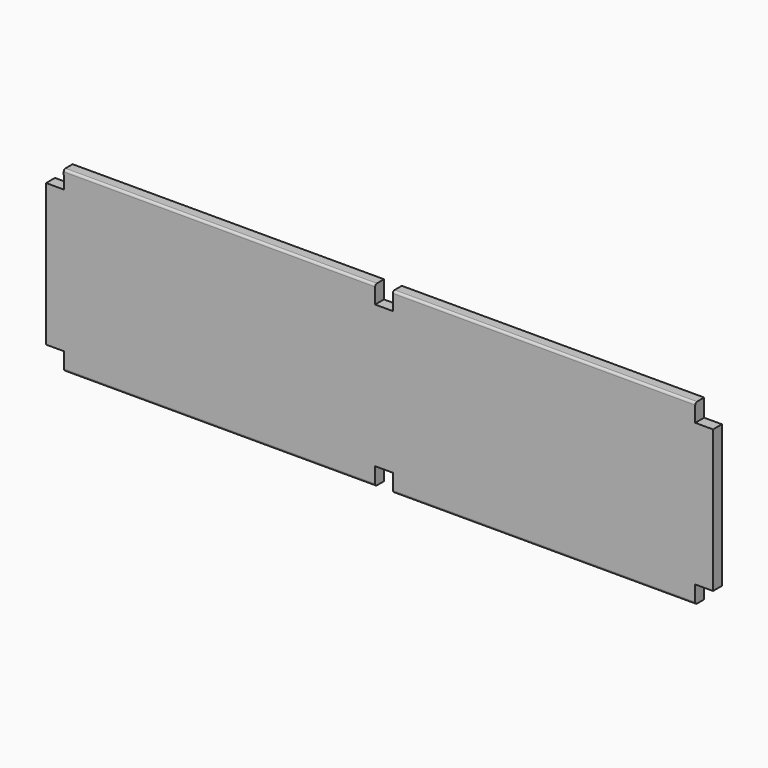
from build123d import *

# Parameters (mm, degrees)
F0_DEPTH = 25
F1_R     = 3
F2_DEPTH = 10
F7_DEPTH = 10
F3_DEPTH = 10
F4_R     = 5
F5_R     = 5


with BuildPart() as f0:
    # F6 (on Front) → F0 (new body)
    with BuildSketch(Plane.XZ):
        Polygon((780.004344, -771.129271), (1460.004344, -771.129271), (1460.004344, -731.129271), (1500.004344, -731.129271), (1500.004344, -411.129271), (1460.004344, -411.129271), (1460.004344, -371.129271), (780.004344, -371.129271), (780.004344, -411.129271), (740.004344, -411.129271), (740.004344, -371.129271), (39.646024, -371.129271), (40.004344, -411.127666), (0.004344, -411.127666), (0.004344, -731.13087), (40.004344, -731.13087), (40.361955, -771.129271), (740.004344, -771.129271), (740.004344, -731.129271), (780.004344, -731.129271), align=None)
    extrude(amount=F0_DEPTH)

    # F1 (on face) → F2 (cut)
    with BuildSketch(Plane(origin=(0, 0, 0), x_dir=(-1, 0, 0), z_dir=(0, 1, 0))):
        with Locations((-60.721829, -491.129271)):
            Circle(F1_R)
    extrude(amount=-F2_DEPTH, mode=Mode.SUBTRACT)

    # F1 (on face) → F7 (cut)
    with BuildSketch(Plane(origin=(0, 0, 0), x_dir=(-1, 0, 0), z_dir=(0, 1, 0))):
        with Locations((-59.289877, -651.129271)):
            Circle(F1_R)
    extrude(amount=-F7_DEPTH, mode=Mode.SUBTRACT)

    # F1 (on face) → F3 (cut)
    with BuildSketch(Plane(origin=(0, 0, 0), x_dir=(-1, 0, 0), z_dir=(0, 1, 0))):
        with Locations((-60.721829, -491.129271)):
            Circle(F1_R)
        with Locations((-59.289877, -651.129271)):
            Circle(F1_R)
        with Locations((-1440.004344, -651.129271)):
            Circle(F1_R)
        with Locations((-1440.004344, -491.129271)):
            Circle(F1_R)
    extrude(amount=-F3_DEPTH, mode=Mode.SUBTRACT)

    # F4
    f4_edges = [f0.edges().sort_by_distance(p)[0] for p in [
        (389.825184, -25, -371.129271),
        (390.183149, -25, -771.129271),
    ]]
    fillet(f4_edges, radius=F4_R)

    # F5
    f5_edges = [f0.edges().sort_by_distance(p)[0] for p in [
        (1120.004344, -25, -371.129271),
        (1120.004344, -25, -771.129271),
    ]]
    fillet(f5_edges, radius=F5_R)


solid = f0.part
